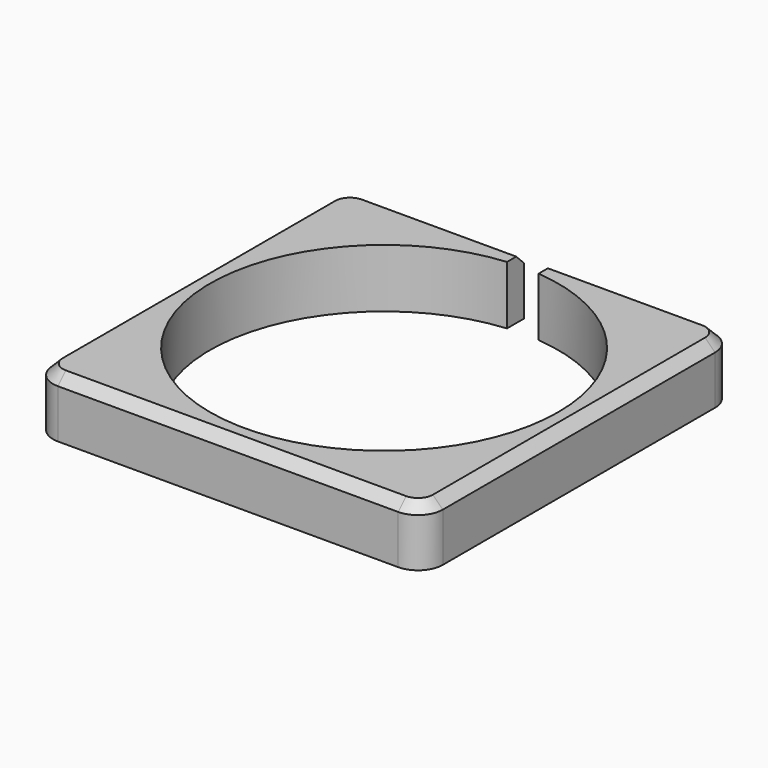
from build123d import *

# Parameters (mm, degrees)
F1_DEPTH = 15
F2_SIZE  = 2.54


with BuildPart() as f1:
    # F0 (on Top) → F1 (new body)
    with BuildSketch(Plane.XY):
        with BuildLine():
            Line((-43.608612, -49.938437), (43.568261, -49.938437))
            ThreePointArc((43.568261, -49.938437), (48.058389, -48.078565), (49.918261, -43.588437))
            Line((49.918261, -43.588437), (49.918261, 43.588437))
            ThreePointArc((49.918261, 43.588437), (48.058389, 48.078565), (43.568261, 49.938437))
            Line((43.568261, 49.938437), (4.053582, 49.938437))
            Line((4.053582, 49.938437), (4.053582, 44.430462))
            ThreePointArc((4.053582, 44.430462), (32.949568, 30.080284), (44.614992, 0))
            ThreePointArc((44.614992, 0), (-30.080284, -32.949568), (-4.053582, 44.430462))
            Line((-4.053582, 44.430462), (-4.053582, 49.938437))
            Line((-4.053582, 49.938437), (-43.608612, 49.938437))
            ThreePointArc((-43.608612, 49.938437), (-48.09874, 48.078565), (-49.958612, 43.588437))
            Line((-49.958612, 43.588437), (-49.958612, -43.588437))
            ThreePointArc((-49.958612, -43.588437), (-48.09874, -48.078565), (-43.608612, -49.938437))
        make_face()
    extrude(amount=-F1_DEPTH)

    # F2
    f2_edges = [f1.edges().sort_by_distance(p)[0] for p in [
        (-49.958612, 0, 0),
    ]]
    chamfer(f2_edges, length=F2_SIZE)


solid = f1.part
